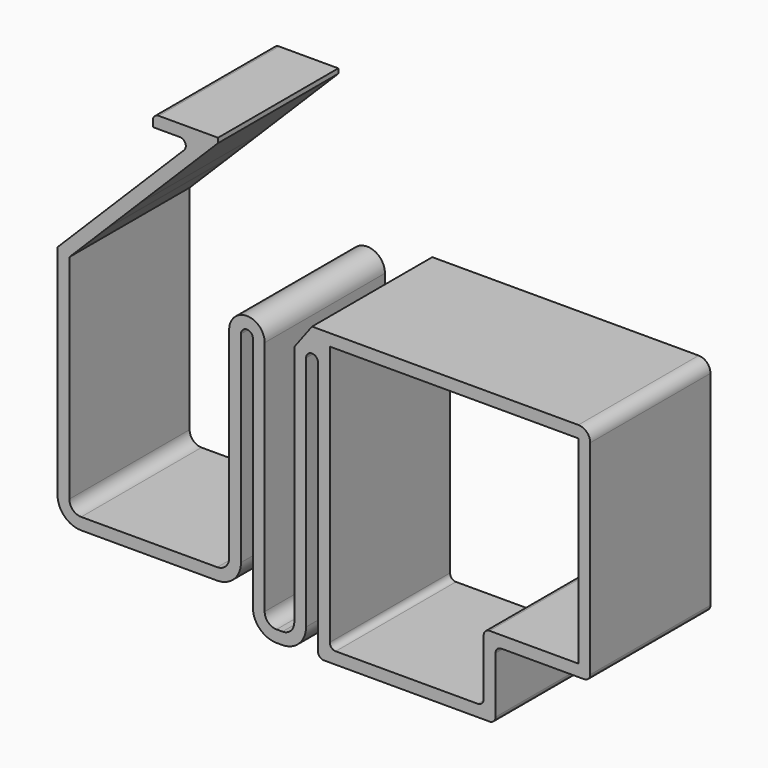
from build123d import *

# Parameters (mm, degrees)
F1_DEPTH = 25.4


with BuildPart() as f1:
    # F0 (on Front) → F1 (new body)
    with BuildSketch(Plane.XZ):
        with BuildLine():
            Line((-44.0927888853, -17.6568811615), (-44.0927888853, 16.3431188385))
            Line((-44.0927888853, 16.3431188385), (-44.0927888853, 18.3436882551))
            Line((-44.0927888853, 18.3436882551), (-37.9627012969, 24.4737758435))
            Line((-37.9627012969, 24.4737758435), (-37.7748692128, 24.6616079276))
            Line((-37.7748692128, 24.6616079276), (-32.4324467604, 30.0040303801))
            Line((-32.4324467604, 30.0040303801), (-18.976061375, 43.4604157654))
            Line((-18.976061375, 43.4604157654), (-18.976061375, 44.2634415021))
            Line((-18.976061375, 44.2634415021), (-19.0625148798, 44.2634415021))
            Line((-19.0625148798, 44.2634415021), (-21.0014627631, 44.2634415021))
            Line((-21.0014627631, 44.2634415021), (-28.9863417698, 44.2634415021))
            ThreePointArc((-28.9863417698, 44.2634415021), (-29.6934485509, 43.9705482833), (-29.9863417698, 43.2634415021))
            Line((-29.9863417698, 43.2634415021), (-29.9863417698, 42.2634415021))
            Line((-29.9863417698, 42.2634415021), (-25.4156763255, 42.2634415021))
            ThreePointArc((-25.4156763255, 42.2634415021), (-24.491796793, 41.6461249344), (-24.7085695443, 40.5563347209))
            Line((-24.7085695443, 40.5563347209), (-33.8466603227, 31.4182439424))
            Line((-33.8466603227, 31.4182439424), (-39.2603177763, 26.0045864889))
            Line((-39.2603177763, 26.0045864889), (-39.3056798582, 25.959224407))
            Line((-39.3056798582, 25.959224407), (-45.5308161284, 19.7340881367))
            Line((-45.5308161284, 19.7340881367), (-46.0927888853, 19.1721153799))
            Line((-46.0927888853, 19.1721153799), (-46.0927888853, 18.3436882551))
            Line((-46.0927888853, 18.3436882551), (-46.0927888853, 16.3436882551))
            Line((-46.0927888853, 16.3436882551), (-46.0927888853, -17.6568811615))
            ThreePointArc((-46.0927888853, -17.6568811615), (-44.92121601, -20.4853082863), (-42.0927888853, -21.6568811615))
            Line((-42.0927888853, -21.6568811615), (-19.0927888853, -21.6568811615))
            ThreePointArc((-19.0927888853, -21.6568811615), (-16.2643617606, -20.4853082863), (-15.0927888853, -17.6568811615))
            Line((-15.0927888853, -17.6568811615), (-15.0927888853, 16.3431188385))
            ThreePointArc((-15.0927888853, 16.3431188385), (-14.0927888853, 17.3431188385), (-13.0927888853, 16.3431188385))
            Line((-13.0927888853, 16.3431188385), (-13.0927888853, -23.6568811615))
            ThreePointArc((-13.0927888853, -23.6568811615), (-11.92121601, -26.4853082863), (-9.0927888853, -27.6568811615))
            Line((-9.0927888853, -27.6568811615), (-8.0927888853, -27.6568811615))
            ThreePointArc((-8.0927888853, -27.6568811615), (-5.2643617606, -26.4853082863), (-4.0927888853, -23.6568811615))
            Line((-4.0927888853, -23.6568811615), (-4.0927888853, 16.3431188385))
            ThreePointArc((-4.0927888853, 16.3431188385), (-3.0927888853, 17.3431188385), (-2.0927888853, 16.3431188385))
            Line((-2.0927888853, 16.3431188385), (-2.0927888853, -25.6568811615))
            Line((-2.0927888853, -25.6568811615), (-2.0927888853, -26.6568811615))
            ThreePointArc((-2.0927888853, -26.6568811615), (-1.7998956665, -27.3639879427), (-1.0927888853, -27.6568811615))
            Line((-1.0927888853, -27.6568811615), (26.9072111147, -27.6568811615))
            ThreePointArc((26.9072111147, -27.6568811615), (27.6143178959, -27.3639879427), (27.9072111147, -26.6568811615))
            Line((27.9072111147, -26.6568811615), (27.9072111147, -25.6568811615))
            Line((27.9072111147, -25.6568811615), (27.9072111147, -17.1568811615))
            ThreePointArc((27.9072111147, -17.1568811615), (28.2001043335, -16.4497743804), (28.9072111147, -16.1568811615))
            Line((28.9072111147, -16.1568811615), (42.8925667579, -16.1568811615))
            ThreePointArc((42.8925667579, -16.1568811615), (43.6100286631, -15.8596987099), (43.9072111147, -15.1422368047))
            Line((43.9072111147, -15.1422368047), (43.9072111147, -14.1568811615))
            Line((43.9072111147, -14.1568811615), (43.9072111147, 6.5842248718))
            Line((43.9072111147, 6.5842248718), (43.9072111147, 15.921769313))
            Line((43.9072111147, 15.921769313), (43.9072111147, 19.3431188385))
            ThreePointArc((43.9072111147, 19.3431188385), (43.3214246771, 20.7573324008), (41.9072111147, 21.3431188385))
            Line((41.9072111147, 21.3431188385), (36.2067359435, 21.3431188385))
            Line((36.2067359435, 21.3431188385), (-3.0927888853, 21.3431188385))
            Line((-3.0927888853, 21.3431188385), (-6.0927888853, 17.3431188385))
            Line((-6.0927888853, 17.3431188385), (-6.0927888853, 16.3431188385))
            Line((-6.0927888853, 16.3431188385), (-6.0927888853, 14.51957377))
            Line((-6.0927888853, 14.51957377), (-6.0927888853, -23.6568811615))
            ThreePointArc((-6.0927888853, -23.6568811615), (-6.6785753229, -25.0710947239), (-8.0927888853, -25.6568811615))
            Line((-8.0927888853, -25.6568811615), (-9.0927888853, -25.6568811615))
            ThreePointArc((-9.0927888853, -25.6568811615), (-10.5070024477, -25.0710947239), (-11.0927888853, -23.6568811615))
            Line((-11.0927888853, -23.6568811615), (-11.0927888853, 16.3431188385))
            ThreePointArc((-11.0927888853, 16.3431188385), (-14.0927888853, 19.3431188385), (-17.0927888853, 16.3431188385))
            Line((-17.0927888853, 16.3431188385), (-17.0927888853, -17.6568811615))
            ThreePointArc((-17.0927888853, -17.6568811615), (-17.6785753229, -19.0710947239), (-19.0927888853, -19.6568811615))
            Line((-19.0927888853, -19.6568811615), (-42.0927888853, -19.6568811615))
            ThreePointArc((-42.0927888853, -19.6568811615), (-43.5070024477, -19.0710947239), (-44.0927888853, -17.6568811615))
        make_face()
        with BuildLine():
            Line((-0.0927888853, -24.6568811615), (-0.0927888853, 16.3431188385))
            Line((-0.0927888853, 16.3431188385), (-0.0927888853, 18.2873376789))
            Line((-0.0927888853, 18.2873376789), (-0.0927888853, 19.3431188385))
            Line((-0.0927888853, 19.3431188385), (0.0836735601, 19.3431188385))
            Line((0.0836735601, 19.3431188385), (41.9072111147, 19.3431188385))
            Line((41.9072111147, 19.3431188385), (41.9072111147, 18.3431188385))
            Line((41.9072111147, 18.3431188385), (41.9072111147, 15.921769313))
            Line((41.9072111147, 15.921769313), (41.9072111147, -8.4106422742))
            Line((41.9072111147, -8.4106422742), (41.9072111147, -14.1568811615))
            Line((41.9072111147, -14.1568811615), (26.9072111147, -14.1568811615))
            ThreePointArc((26.9072111147, -14.1568811615), (26.2001043335, -14.4497743804), (25.9072111147, -15.1568811615))
            Line((25.9072111147, -15.1568811615), (25.9072111147, -24.6568811615))
            ThreePointArc((25.9072111147, -24.6568811615), (25.6143178959, -25.3639879427), (24.9072111147, -25.6568811615))
            Line((24.9072111147, -25.6568811615), (0.9072111147, -25.6568811615))
            ThreePointArc((0.9072111147, -25.6568811615), (0.2001043335, -25.3639879427), (-0.0927888853, -24.6568811615))
        make_face(mode=Mode.SUBTRACT)
        with BuildLine():
            Line((-37.7748692128, 24.6616079276), (-37.9627012969, 24.4737758435))
            ThreePointArc((-37.9627012969, 24.4737758435), (-37.8625500121, 24.5614566429), (-37.7748692128, 24.6616079276))
        make_face()
        with BuildLine():
            Line((-39.3056798582, 25.959224407), (-39.2603177763, 26.0045864889))
            ThreePointArc((-39.2603177763, 26.0045864889), (-39.2833609771, 25.9822676079), (-39.3056798582, 25.959224407))
        make_face()
    extrude(amount=F1_DEPTH)


solid = f1.part
